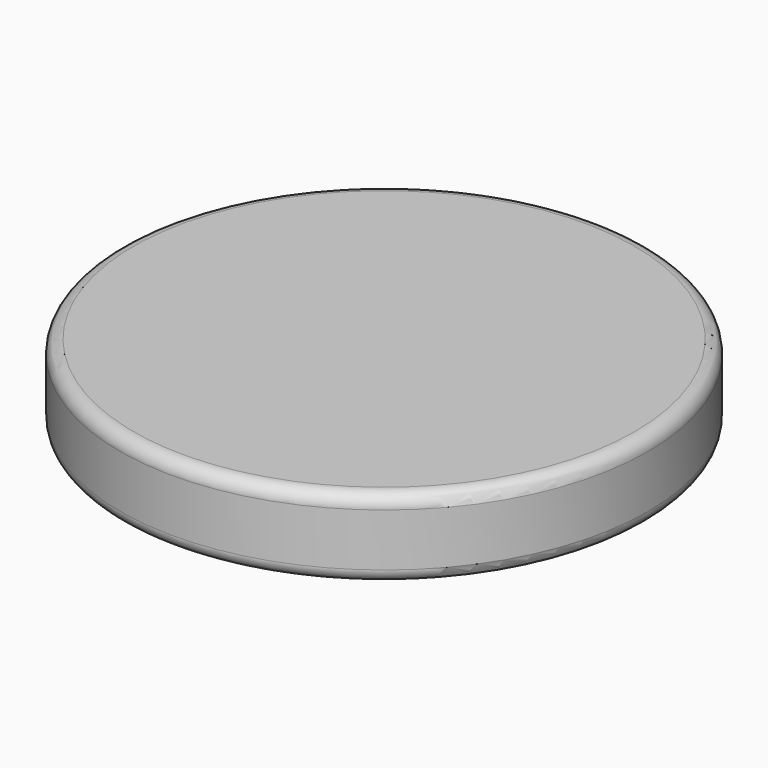
from build123d import *

# Parameters (mm, degrees)
SKETCH_R    = 10
PAD_DEPTH   = 3
FILLET_R    = 0.5
FILLET001_R = 0.5


with BuildPart() as part:
    # Sketch → Pad (new body)
    with BuildSketch(Plane.XY):
        Circle(SKETCH_R)
    extrude(amount=PAD_DEPTH)

    # Fillet
    fillet_edges = [part.edges().sort_by_distance(p)[0] for p in [
        (-10, 0, 3),
    ]]
    fillet(fillet_edges, radius=FILLET_R)

    # Fillet001
    fillet001_edges = [part.edges().sort_by_distance(p)[0] for p in [
        (-10, 0, 0),
    ]]
    fillet(fillet001_edges, radius=FILLET001_R)


solid = part.part
